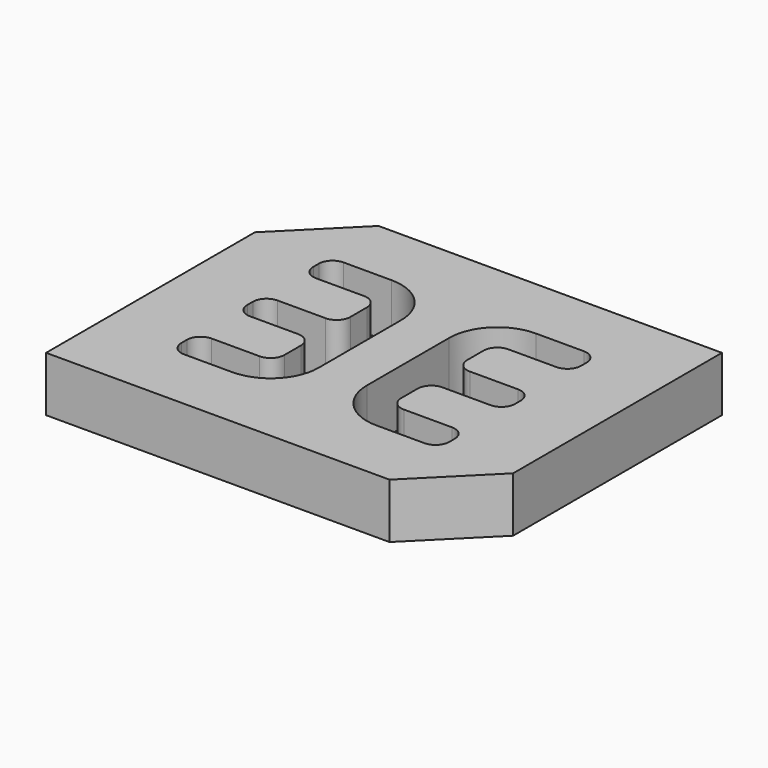
from build123d import *

# Parameters (mm, degrees)
F0_W     = 30
F0_H     = 24
F1_DEPTH = 4
F2_SIZE  = 5
F3_SIZE  = 5


with BuildPart() as f1:
    # F0 (on Top) → F1 (new body)
    with BuildSketch(Plane.XY):
        Rectangle(F0_W, F0_H)
        with BuildLine():
            Line((-8.75, 1.25), (-5.25, 1.25))
            ThreePointArc((-5.25, 1.25), (-4.542893, 1.542893), (-4.25, 2.25))
            Line((-4.25, 2.25), (-4.25, 3.75))
            ThreePointArc((-4.25, 3.75), (-4.542893, 4.457107), (-5.25, 4.75))
            Line((-5.25, 4.75), (-8.75, 4.75))
            ThreePointArc((-8.75, 4.75), (-9.457107, 5.042893), (-9.75, 5.75))
            Line((-9.75, 5.75), (-9.75, 6.25))
            ThreePointArc((-9.75, 6.25), (-9.457107, 6.957107), (-8.75, 7.25))
            Line((-8.75, 7.25), (-5.25, 7.25))
            ThreePointArc((-5.25, 7.25), (-2.775126, 6.224874), (-1.75, 3.75))
            Line((-1.75, 3.75), (-1.75, -3.75))
            ThreePointArc((-1.75, -3.75), (-2.775126, -6.224874), (-5.25, -7.25))
            Line((-5.25, -7.25), (-8.75, -7.25))
            ThreePointArc((-8.75, -7.25), (-9.457107, -6.957107), (-9.75, -6.25))
            Line((-9.75, -6.25), (-9.75, -5.75))
            ThreePointArc((-9.75, -5.75), (-9.457107, -5.042893), (-8.75, -4.75))
            Line((-8.75, -4.75), (-5.25, -4.75))
            ThreePointArc((-5.25, -4.75), (-4.542893, -4.457107), (-4.25, -3.75))
            Line((-4.25, -3.75), (-4.25, -2.25))
            ThreePointArc((-4.25, -2.25), (-4.542893, -1.542893), (-5.25, -1.25))
            Line((-5.25, -1.25), (-8.75, -1.25))
            ThreePointArc((-8.75, -1.25), (-9.457107, -0.957107), (-9.75, -0.25))
            Line((-9.75, -0.25), (-9.75, 0.25))
            ThreePointArc((-9.75, 0.25), (-9.457107, 0.957107), (-8.75, 1.25))
        make_face(mode=Mode.SUBTRACT)
        with BuildLine():
            ThreePointArc((1.75, 3.75), (2.775126, 6.224874), (5.25, 7.25))
            Line((5.25, 7.25), (8.75, 7.25))
            ThreePointArc((8.75, 7.25), (9.457107, 6.957107), (9.75, 6.25))
            Line((9.75, 6.25), (9.75, 5.75))
            ThreePointArc((9.75, 5.75), (9.457107, 5.042893), (8.75, 4.75))
            Line((8.75, 4.75), (5.25, 4.75))
            ThreePointArc((5.25, 4.75), (4.542893, 4.457107), (4.25, 3.75))
            Line((4.25, 3.75), (4.25, 2.25))
            ThreePointArc((4.25, 2.25), (4.542893, 1.542893), (5.25, 1.25))
            Line((5.25, 1.25), (8.75, 1.25))
            ThreePointArc((8.75, 1.25), (9.457107, 0.957107), (9.75, 0.25))
            Line((9.75, 0.25), (9.75, -0.25))
            ThreePointArc((9.75, -0.25), (9.457107, -0.957107), (8.75, -1.25))
            Line((8.75, -1.25), (5.25, -1.25))
            ThreePointArc((5.25, -1.25), (4.542893, -1.542893), (4.25, -2.25))
            Line((4.25, -2.25), (4.25, -3.75))
            ThreePointArc((4.25, -3.75), (4.542893, -4.457107), (5.25, -4.75))
            Line((5.25, -4.75), (8.75, -4.75))
            ThreePointArc((8.75, -4.75), (9.457107, -5.042893), (9.75, -5.75))
            Line((9.75, -5.75), (9.75, -6.25))
            ThreePointArc((9.75, -6.25), (9.457107, -6.957107), (8.75, -7.25))
            Line((8.75, -7.25), (5.25, -7.25))
            ThreePointArc((5.25, -7.25), (2.775126, -6.224874), (1.75, -3.75))
            Line((1.75, -3.75), (1.75, 3.75))
        make_face(mode=Mode.SUBTRACT)
    extrude(amount=F1_DEPTH)

    # F2
    f2_edges = [f1.edges().sort_by_distance(p)[0] for p in [
        (-15, 12, 2),
    ]]
    chamfer(f2_edges, length=F2_SIZE)

    # F3
    f3_edges = [f1.edges().sort_by_distance(p)[0] for p in [
        (15, -12, 2),
    ]]
    chamfer(f3_edges, length=F3_SIZE)


solid = f1.part
